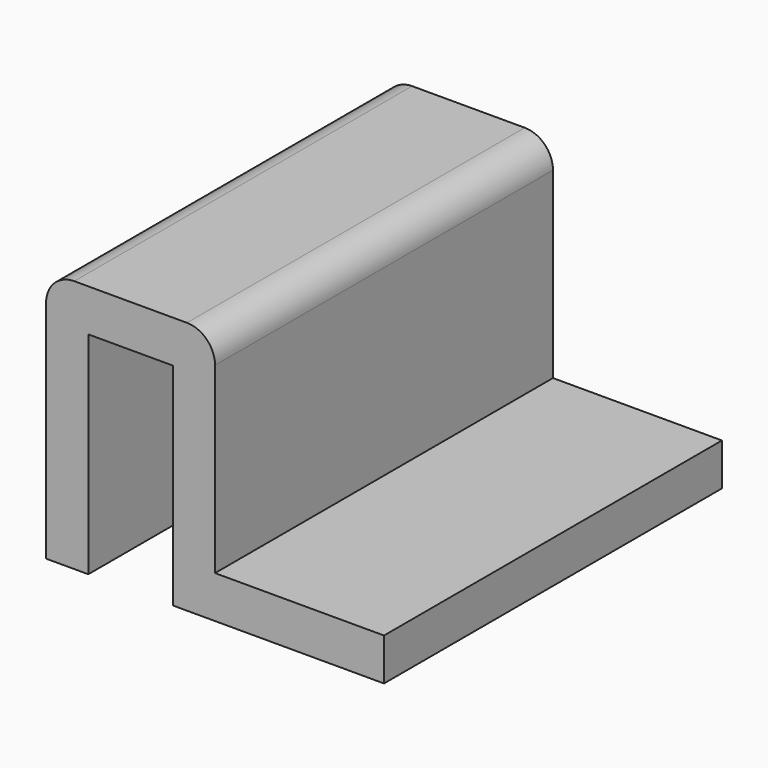
from build123d import *

# Parameters (mm, degrees)
F1_DEPTH = 30
F2_R     = 2
F3_R     = 2


with BuildPart() as f1:
    # F0 (on Front) → F1 (new body)
    with BuildSketch(Plane.XZ):
        Polygon((-6, 0), (-6, 15), (0, 15), (0, 0), (15, 0), (15, 3), (3, 3), (3, 18), (-9, 18), (-9, 0), align=None)
    extrude(amount=F1_DEPTH)

    # F2
    f2_edges = [f1.edges().sort_by_distance(p)[0] for p in [
        (3, -15, 18),
    ]]
    fillet(f2_edges, radius=F2_R)

    # F3
    f3_edges = [f1.edges().sort_by_distance(p)[0] for p in [
        (-9, -15, 18),
    ]]
    fillet(f3_edges, radius=F3_R)


solid = f1.part
